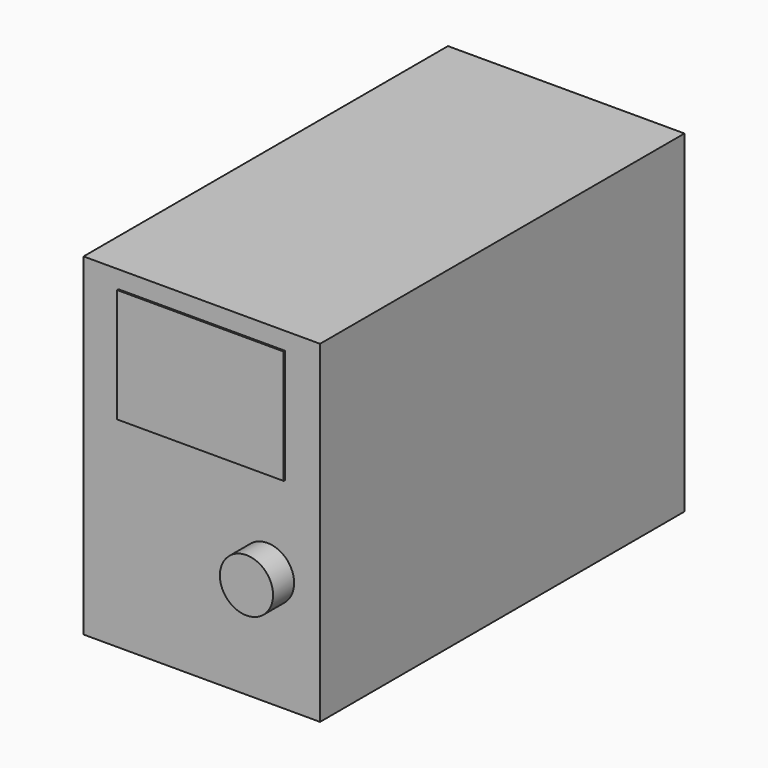
from build123d import *

# Parameters (mm, degrees)
F0_W     = 135
F0_H     = 190
F1_DEPTH = 130
F2_R     = 15.186523
F3_DEPTH = 15
F2_W     = 95
F2_H     = 65
F4_DEPTH = 1
F5_W     = 30
F5_H     = 33
F6_DEPTH = 5


with BuildPart() as f1:
    # F0 (on Front) → F1 (new body, symmetric)
    with BuildSketch(Plane.XZ):
        Rectangle(F0_W, F0_H)
    extrude(amount=F1_DEPTH, both=True)

    # F2 (on face) → F3 (join)
    with BuildSketch(Plane.XZ.offset(130)):
        with Locations((37.5, -30)):
            Circle(F2_R)
    extrude(amount=F3_DEPTH)

    # F2 (on face) → F4 (join)
    with BuildSketch(Plane.XZ.offset(130)):
        with Locations((0, 52.5)):
            Rectangle(F2_W, F2_H)
    extrude(amount=F4_DEPTH)

    # F5 (on face) → F6 (join)
    with BuildSketch(Plane(origin=(0, 130, 0), x_dir=(-1, 0, 0), z_dir=(0, 1, 0))):
        with Locations((32.5, -51.5)):
            Rectangle(F5_W, F5_H)
    extrude(amount=F6_DEPTH)


solid = f1.part
